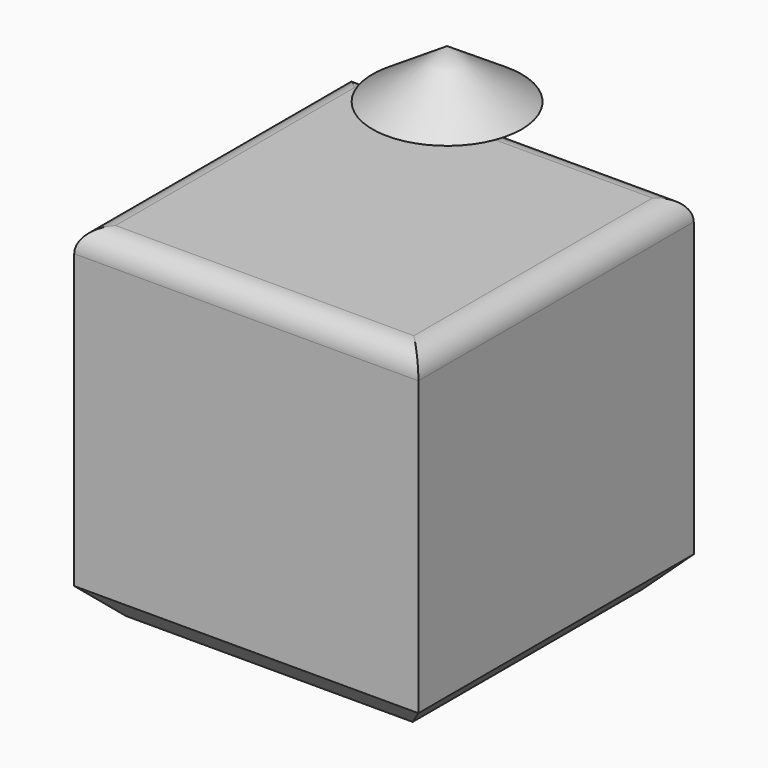
from build123d import *

# Parameters (mm, degrees)
F0_W     = 60
F0_H     = 60
F1_DEPTH = 60
F2_R     = 4
F3_SIZE  = 5


with BuildPart() as f1:
    # F0 (on Front) → F1 (new body)
    with BuildSketch(Plane.XZ):
        Rectangle(F0_W, F0_H)
    extrude(amount=F1_DEPTH)

    # F2
    f2_edges = [f1.edges().sort_by_distance(p)[0] for p in [
        (0, -60, 30),
        (30, -30, 30),
        (0, 0, 30),
        (-30, -30, 30),
    ]]
    fillet(f2_edges, radius=F2_R)

    # F3
    f3_edges = [f1.edges().sort_by_distance(p)[0] for p in [
        (0, -60, -30),
        (30, -30, -30),
        (0, 0, -30),
        (-30, -30, -30),
    ]]
    chamfer(f3_edges, length=F3_SIZE)


with BuildPart() as f5:
    # F4 (on Front) → F5 (revolve)
    with BuildSketch(Plane.XZ):
        Polygon((0, 30.462176), (-13.002147, 39.006442), (-13.002147, 30.462176), align=None)
    revolve(axis=Axis((-13.002147, 0, 34.734309), (0, 0, -1)))


solid = Compound([f1.part, f5.part])
